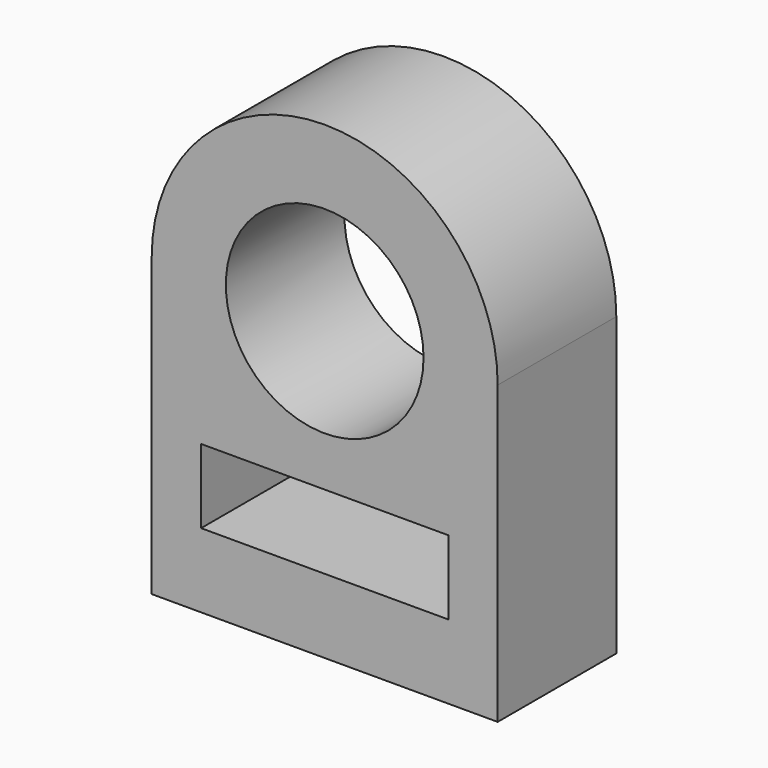
from build123d import *

# Parameters (mm, degrees)
F0_W     = 50
F0_H     = 15
F0_R     = 20
F1_DEPTH = 30


with BuildPart() as f1:
    # F0 (on Front) → F1 (new body)
    with BuildSketch(Plane.XZ):
        with BuildLine():
            Line((35, -30.954995), (35, 29.045005))
            ThreePointArc((35, 29.045005), (0, 64.045005), (-35, 29.045005))
            Line((-35, 29.045005), (-35, -30.954995))
            Line((-35, -30.954995), (35, -30.954995))
        make_face()
        with Locations((0, -8.454995)):
            Rectangle(F0_W, F0_H, mode=Mode.SUBTRACT)
        with Locations((0, 29.045005)):
            Circle(F0_R, mode=Mode.SUBTRACT)
    extrude(amount=F1_DEPTH)


solid = f1.part
